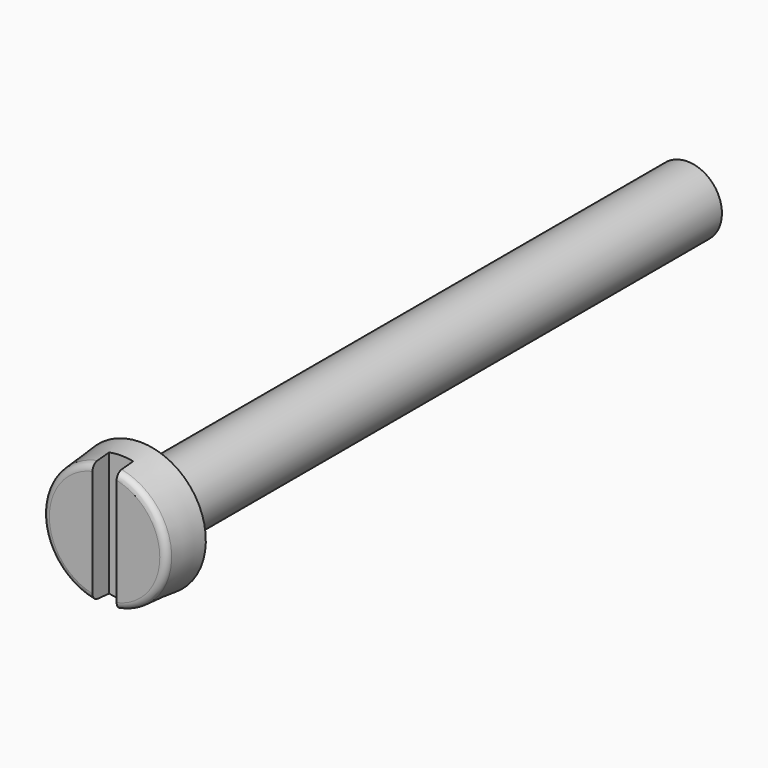
from build123d import *

# Parameters (mm, degrees)
SKETCH001_W  = 3.8
SKETCH001_H  = 0.7
POCKET_DEPTH = 0.6


with BuildPart() as part:
    # Sketch → Revolution (revolve)
    with BuildSketch(Plane.YZ):
        with BuildLine():
            Line((0, 1.603002), (0, 0))
            Line((0, 0), (21.3, 0))
            Line((21.3, 0), (21.3, 0.755))
            Line((21.3, 0.755), (21.158549, 1))
            Line((21.158549, 1), (1.3, 1))
            Line((1.3, 1), (1.3, 1.9))
            Line((1.3, 1.9), (0.182569, 1.802237))
            ThreePointArc((0.182569, 1.802237), (0.052546, 1.738118), (0, 1.603002))
        make_face()
    revolve(axis=Axis((0, 0, 0), (0, 1, 0)))

    # Sketch001 → Pocket (cut)
    with BuildSketch(Plane(origin=(0, 0, 0), x_dir=(0, 0, -1), z_dir=(0, -1, 0))):
        Rectangle(SKETCH001_W, SKETCH001_H)
    extrude(amount=-POCKET_DEPTH, mode=Mode.SUBTRACT)


solid = part.part
